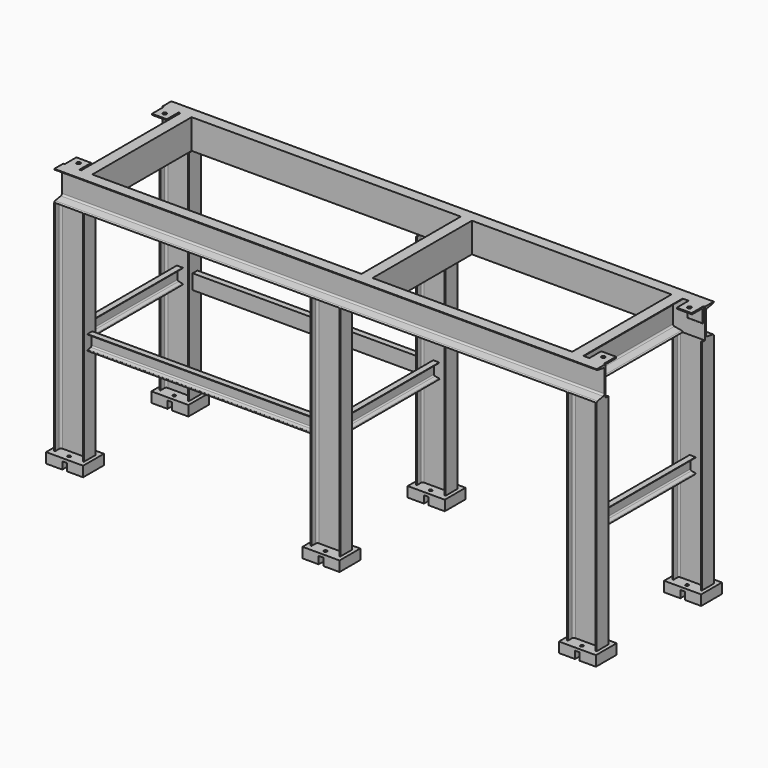
from build123d import *

# Parameters (mm, degrees)
F1_DEPTH      = 50.8
F3_DEPTH      = 60.325
F3_DEPTH_BACK = 3657.6
F6_DEPTH      = 50.8
F7_R          = 12.7
F8_DEPTH      = 9.525
F12_DEPTH     = 850.9
F14_DEPTH     = 1498.6
F15_W         = 254
F15_H         = 177.8
F15_R         = 10.31875
F16_DEPTH     = 19.05
F18_DEPTH     = 50.8
F20_DEPTH     = 895.35
F22_DEPTH     = 1554.1625


with BuildPart() as f1:
    # F0 (on Right) → F1 (new body, symmetric)
    with BuildSketch(Plane.YZ):
        with BuildLine():
            Line((101.6, 0), (0, 0))
            Line((0, 0), (0, -101.6))
            Line((0, -101.6), (4.7625, -101.6))
            ThreePointArc((4.7625, -101.6), (8.1300960454, -100.2050960454), (9.525, -96.8375))
            Line((9.525, -96.8375), (9.525, -19.05))
            ThreePointArc((9.525, -19.05), (12.3148079092, -12.3148079092), (19.05, -9.525))
            Line((19.05, -9.525), (96.8375, -9.525))
            ThreePointArc((96.8375, -9.525), (100.2050960454, -8.1300960454), (101.6, -4.7625))
            Line((101.6, -4.7625), (101.6, 0))
        make_face()
    extrude(amount=F1_DEPTH, both=True)

    # F2 (on Right) → F3 (join, two sides)
    with BuildSketch(Plane.YZ) as f3_sk:
        with BuildLine():
            Line((0, -203.2), (0, 0))
            Line((0, 0), (-76.2, 0))
            ThreePointArc((-76.2, 0), (-74.2744464194, -5.2869751523), (-69.3998090394, -8.0972728709))
            Line((-69.3998090394, -8.0972728709), (-19.3474980542, -16.8796887241))
            ThreePointArc((-19.3474980542, -16.8796887241), (-12.306355172, -20.9390076509), (-9.525, -28.5757495376))
            Line((-9.525, -28.5757495376), (-9.525, -174.6242504624))
            ThreePointArc((-9.525, -174.6242504624), (-12.306355172, -182.2609923491), (-19.3474980542, -186.3203112759))
            Line((-19.3474980542, -186.3203112759), (-69.3998090394, -195.1027271291))
            ThreePointArc((-69.3998090394, -195.1027271291), (-74.2744464194, -197.9130248477), (-76.2, -203.2))
            Line((-76.2, -203.2), (0, -203.2))
        make_face()
    extrude(amount=-F3_DEPTH)
    extrude(f3_sk.sketch, amount=F3_DEPTH_BACK)

    # F5 (on offset) → F6 (join, symmetric)
    with BuildSketch(Plane.YZ.offset(3597.275)):
        with BuildLine():
            Line((101.6, 0), (0, 0))
            Line((0, 0), (0, -101.6))
            Line((0, -101.6), (4.7625, -101.6))
            ThreePointArc((4.7625, -101.6), (8.1300960454, -100.2050960454), (9.525, -96.8375))
            Line((9.525, -96.8375), (9.525, -19.05))
            ThreePointArc((9.525, -19.05), (12.3148079092, -12.3148079092), (19.05, -9.525))
            Line((19.05, -9.525), (96.8375, -9.525))
            ThreePointArc((96.8375, -9.525), (100.2050960454, -8.1300960454), (101.6, -4.7625))
            Line((101.6, -4.7625), (101.6, 0))
        make_face()
    extrude(amount=F6_DEPTH, both=True)

    # F7 (on face) → F8 (cut, through all)
    with BuildSketch(Plane.XY):
        with Locations((0, 57.15)):
            Circle(F7_R)
        with Locations((3597.275, 57.15)):
            Circle(F7_R)
    extrude(amount=-F8_DEPTH, mode=Mode.SUBTRACT)


with BuildPart() as f10_1:
    # F10: instance of F1
    add(f1.part.mirror(Plane.XZ.offset(-425.45)))


with BuildPart() as f1_1:
    add(f1.part)

    add(f10_1.part)  # F12 merges F10_1
    # F11 (on face) → F12 (join, through all)
    with BuildSketch(Plane(origin=(0, 0, 0), x_dir=(-1, 0, 0), z_dir=(0, 1, 0))):
        with BuildLine():
            Line((-3429, -203.2), (-3429, 0))
            Line((-3429, 0), (-3505.2, 0))
            ThreePointArc((-3505.2, 0), (-3503.2744464194, -5.2869751523), (-3498.3998090394, -8.0972728709))
            Line((-3498.3998090394, -8.0972728709), (-3448.3474980542, -16.8796887241))
            ThreePointArc((-3448.3474980542, -16.8796887241), (-3441.306355172, -20.9390076509), (-3438.525, -28.5757495376))
            Line((-3438.525, -28.5757495376), (-3438.525, -174.6242504624))
            ThreePointArc((-3438.525, -174.6242504624), (-3441.306355172, -182.2609923491), (-3448.3474980542, -186.3203112759))
            Line((-3448.3474980542, -186.3203112759), (-3498.3998090394, -195.1027271291))
            ThreePointArc((-3498.3998090394, -195.1027271291), (-3503.2744464194, -197.9130248477), (-3505.2, -203.2))
            Line((-3505.2, -203.2), (-3429, -203.2))
        make_face()
        with BuildLine():
            Line((-2060.575, 0), (-2060.575, -203.2))
            Line((-2060.575, -203.2), (-1984.375, -203.2))
            ThreePointArc((-1984.375, -203.2), (-1986.3005535806, -197.9130248477), (-1991.1751909606, -195.1027271291))
            Line((-1991.1751909606, -195.1027271291), (-2041.2275019458, -186.3203112759))
            ThreePointArc((-2041.2275019458, -186.3203112759), (-2048.268644828, -182.2609923491), (-2051.05, -174.6242504624))
            Line((-2051.05, -174.6242504624), (-2051.05, -28.5757495376))
            ThreePointArc((-2051.05, -28.5757495376), (-2048.268644828, -20.9390076509), (-2041.2275019458, -16.8796887241))
            Line((-2041.2275019458, -16.8796887241), (-1991.1751909606, -8.0972728709))
            ThreePointArc((-1991.1751909606, -8.0972728709), (-1986.3005535806, -5.2869751523), (-1984.375, 0))
            Line((-1984.375, 0), (-2060.575, 0))
        make_face()
        with BuildLine():
            Line((-139.7, 0), (-139.7, -203.2))
            Line((-139.7, -203.2), (-63.5, -203.2))
            ThreePointArc((-63.5, -203.2), (-65.4255535806, -197.9130248477), (-70.3001909606, -195.1027271291))
            Line((-70.3001909606, -195.1027271291), (-120.3525019458, -186.3203112759))
            ThreePointArc((-120.3525019458, -186.3203112759), (-127.393644828, -182.2609923491), (-130.175, -174.6242504624))
            Line((-130.175, -174.6242504624), (-130.175, -28.5757495376))
            ThreePointArc((-130.175, -28.5757495376), (-127.393644828, -20.9390076509), (-120.3525019458, -16.8796887241))
            Line((-120.3525019458, -16.8796887241), (-70.3001909606, -8.0972728709))
            ThreePointArc((-70.3001909606, -8.0972728709), (-65.4255535806, -5.2869751523), (-63.5, 0))
            Line((-63.5, 0), (-139.7, 0))
        make_face()
    extrude(amount=F12_DEPTH)

    # F13 (on face) → F14 (join)
    with BuildSketch(Plane(origin=(0, 0, -203.2), x_dir=(1, 0, 0), z_dir=(0, 0, -1))):
        with BuildLine():
            Line((-53.975, -825.5), (-60.325, -825.5))
            Line((-60.325, -825.5), (-60.325, -927.1))
            Line((-60.325, -927.1), (-53.975, -927.1))
            Line((-53.975, -927.1), (-53.975, -892.175))
            ThreePointArc((-53.975, -892.175), (-50.2552561211, -883.1947438789), (-41.275, -879.475))
            Line((-41.275, -879.475), (123.825, -879.475))
            ThreePointArc((123.825, -879.475), (132.8052561211, -883.1947438789), (136.525, -892.175))
            Line((136.525, -892.175), (136.525, -927.1))
            Line((136.525, -927.1), (142.875, -927.1))
            Line((142.875, -927.1), (142.875, -825.5))
            Line((142.875, -825.5), (136.525, -825.5))
            Line((136.525, -825.5), (136.525, -860.425))
            ThreePointArc((136.525, -860.425), (132.8052561211, -869.4052561211), (123.825, -873.125))
            Line((123.825, -873.125), (-41.275, -873.125))
            ThreePointArc((-41.275, -873.125), (-50.2552561211, -869.4052561211), (-53.975, -860.425))
            Line((-53.975, -860.425), (-53.975, -825.5))
        make_face()
        with BuildLine():
            Line((-53.975, 76.2), (-60.325, 76.2))
            Line((-60.325, 76.2), (-60.325, -25.4))
            Line((-60.325, -25.4), (-53.975, -25.4))
            Line((-53.975, -25.4), (-53.975, 9.525))
            ThreePointArc((-53.975, 9.525), (-50.2552561211, 18.5052561211), (-41.275, 22.225))
            Line((-41.275, 22.225), (123.825, 22.225))
            ThreePointArc((123.825, 22.225), (132.8052561211, 18.5052561211), (136.525, 9.525))
            Line((136.525, 9.525), (136.525, -25.4))
            Line((136.525, -25.4), (142.875, -25.4))
            Line((142.875, -25.4), (142.875, 76.2))
            Line((142.875, 76.2), (136.525, 76.2))
            Line((136.525, 76.2), (136.525, 41.275))
            ThreePointArc((136.525, 41.275), (132.8052561211, 32.2947438789), (123.825, 28.575))
            Line((123.825, 28.575), (-41.275, 28.575))
            ThreePointArc((-41.275, 28.575), (-50.2552561211, 32.2947438789), (-53.975, 41.275))
            Line((-53.975, 41.275), (-53.975, 76.2))
        make_face()
        with BuildLine():
            Line((1703.3875, -825.5), (1697.0375, -825.5))
            Line((1697.0375, -825.5), (1697.0375, -927.1))
            Line((1697.0375, -927.1), (1703.3875, -927.1))
            Line((1703.3875, -927.1), (1703.3875, -892.175))
            ThreePointArc((1703.3875, -892.175), (1707.1072438789, -883.1947438789), (1716.0875, -879.475))
            Line((1716.0875, -879.475), (1881.1875, -879.475))
            ThreePointArc((1881.1875, -879.475), (1890.1677561211, -883.1947438789), (1893.8875, -892.175))
            Line((1893.8875, -892.175), (1893.8875, -927.1))
            Line((1893.8875, -927.1), (1900.2375, -927.1))
            Line((1900.2375, -927.1), (1900.2375, -825.5))
            Line((1900.2375, -825.5), (1893.8875, -825.5))
            Line((1893.8875, -825.5), (1893.8875, -860.425))
            ThreePointArc((1893.8875, -860.425), (1890.1677561211, -869.4052561211), (1881.1875, -873.125))
            Line((1881.1875, -873.125), (1716.0875, -873.125))
            ThreePointArc((1716.0875, -873.125), (1707.1072438789, -869.4052561211), (1703.3875, -860.425))
            Line((1703.3875, -860.425), (1703.3875, -825.5))
        make_face()
        with BuildLine():
            Line((1703.3875, 76.2), (1697.0375, 76.2))
            Line((1697.0375, 76.2), (1697.0375, -25.4))
            Line((1697.0375, -25.4), (1703.3875, -25.4))
            Line((1703.3875, -25.4), (1703.3875, 9.525))
            ThreePointArc((1703.3875, 9.525), (1707.1072438789, 18.5052561211), (1716.0875, 22.225))
            Line((1716.0875, 22.225), (1881.1875, 22.225))
            ThreePointArc((1881.1875, 22.225), (1890.1677561211, 18.5052561211), (1893.8875, 9.525))
            Line((1893.8875, 9.525), (1893.8875, -25.4))
            Line((1893.8875, -25.4), (1900.2375, -25.4))
            Line((1900.2375, -25.4), (1900.2375, 76.2))
            Line((1900.2375, 76.2), (1893.8875, 76.2))
            Line((1893.8875, 76.2), (1893.8875, 41.275))
            ThreePointArc((1893.8875, 41.275), (1890.1677561211, 32.2947438789), (1881.1875, 28.575))
            Line((1881.1875, 28.575), (1716.0875, 28.575))
            ThreePointArc((1716.0875, 28.575), (1707.1072438789, 32.2947438789), (1703.3875, 41.275))
            Line((1703.3875, 41.275), (1703.3875, 76.2))
        make_face()
        with BuildLine():
            Line((3460.75, -825.5), (3454.4, -825.5))
            Line((3454.4, -825.5), (3454.4, -927.1))
            Line((3454.4, -927.1), (3460.75, -927.1))
            Line((3460.75, -927.1), (3460.75, -892.175))
            ThreePointArc((3460.75, -892.175), (3464.4697438789, -883.1947438789), (3473.45, -879.475))
            Line((3473.45, -879.475), (3638.55, -879.475))
            ThreePointArc((3638.55, -879.475), (3647.5302561211, -883.1947438789), (3651.25, -892.175))
            Line((3651.25, -892.175), (3651.25, -927.1))
            Line((3651.25, -927.1), (3657.6, -927.1))
            Line((3657.6, -927.1), (3657.6, -825.5))
            Line((3657.6, -825.5), (3651.25, -825.5))
            Line((3651.25, -825.5), (3651.25, -860.425))
            ThreePointArc((3651.25, -860.425), (3647.5302561211, -869.4052561211), (3638.55, -873.125))
            Line((3638.55, -873.125), (3473.45, -873.125))
            ThreePointArc((3473.45, -873.125), (3464.4697438789, -869.4052561211), (3460.75, -860.425))
            Line((3460.75, -860.425), (3460.75, -825.5))
        make_face()
        with BuildLine():
            Line((3460.75, 76.2), (3454.4, 76.2))
            Line((3454.4, 76.2), (3454.4, -25.4))
            Line((3454.4, -25.4), (3460.75, -25.4))
            Line((3460.75, -25.4), (3460.75, 9.525))
            ThreePointArc((3460.75, 9.525), (3464.4697438789, 18.5052561211), (3473.45, 22.225))
            Line((3473.45, 22.225), (3638.55, 22.225))
            ThreePointArc((3638.55, 22.225), (3647.5302561211, 18.5052561211), (3651.25, 9.525))
            Line((3651.25, 9.525), (3651.25, -25.4))
            Line((3651.25, -25.4), (3657.6, -25.4))
            Line((3657.6, -25.4), (3657.6, 76.2))
            Line((3657.6, 76.2), (3651.25, 76.2))
            Line((3651.25, 76.2), (3651.25, 41.275))
            ThreePointArc((3651.25, 41.275), (3647.5302561211, 32.2947438789), (3638.55, 28.575))
            Line((3638.55, 28.575), (3473.45, 28.575))
            ThreePointArc((3473.45, 28.575), (3464.4697438789, 32.2947438789), (3460.75, 41.275))
            Line((3460.75, 41.275), (3460.75, 76.2))
        make_face()
    extrude(amount=F14_DEPTH)

    # F15 (on face) → F16 (join)
    with BuildSketch(Plane(origin=(0, 0, -1701.8), x_dir=(1, 0, 0), z_dir=(0, 0, -1))):
        with Locations((41.275, 25.4)):
            Rectangle(F15_W, F15_H)
        with Locations((41.275, -25.4)):
            Circle(F15_R, mode=Mode.SUBTRACT)
        with BuildLine():
            Line((-41.275, 28.575), (123.825, 28.575))
            ThreePointArc((123.825, 28.575), (132.8052561211, 32.2947438789), (136.525, 41.275))
            Line((136.525, 41.275), (136.525, 76.2))
            Line((136.525, 76.2), (142.875, 76.2))
            Line((142.875, 76.2), (142.875, -25.4))
            Line((142.875, -25.4), (136.525, -25.4))
            Line((136.525, -25.4), (136.525, 9.525))
            ThreePointArc((136.525, 9.525), (132.8052561211, 18.5052561211), (123.825, 22.225))
            Line((123.825, 22.225), (-41.275, 22.225))
            ThreePointArc((-41.275, 22.225), (-50.2552561211, 18.5052561211), (-53.975, 9.525))
            Line((-53.975, 9.525), (-53.975, -25.4))
            Line((-53.975, -25.4), (-60.325, -25.4))
            Line((-60.325, -25.4), (-60.325, 76.2))
            Line((-60.325, 76.2), (-53.975, 76.2))
            Line((-53.975, 76.2), (-53.975, 41.275))
            ThreePointArc((-53.975, 41.275), (-50.2552561211, 32.2947438789), (-41.275, 28.575))
        make_face(mode=Mode.SUBTRACT)
        with Locations((41.275, 76.2)):
            Circle(F15_R, mode=Mode.SUBTRACT)
        with BuildLine():
            ThreePointArc((136.525, 41.275), (132.8052561211, 32.2947438789), (123.825, 28.575))
            Line((123.825, 28.575), (-41.275, 28.575))
            ThreePointArc((-41.275, 28.575), (-50.2552561211, 32.2947438789), (-53.975, 41.275))
            Line((-53.975, 41.275), (-53.975, 76.2))
            Line((-53.975, 76.2), (-60.325, 76.2))
            Line((-60.325, 76.2), (-60.325, -25.4))
            Line((-60.325, -25.4), (-53.975, -25.4))
            Line((-53.975, -25.4), (-53.975, 9.525))
            ThreePointArc((-53.975, 9.525), (-50.2552561211, 18.5052561211), (-41.275, 22.225))
            Line((-41.275, 22.225), (123.825, 22.225))
            ThreePointArc((123.825, 22.225), (132.8052561211, 18.5052561211), (136.525, 9.525))
            Line((136.525, 9.525), (136.525, -25.4))
            Line((136.525, -25.4), (142.875, -25.4))
            Line((142.875, -25.4), (142.875, 76.2))
            Line((142.875, 76.2), (136.525, 76.2))
            Line((136.525, 76.2), (136.525, 41.275))
        make_face()
        with Locations((1798.6375, 25.4)):
            Rectangle(F15_W, F15_H)
        with Locations((1798.6375, -25.4)):
            Circle(F15_R, mode=Mode.SUBTRACT)
        with Locations((1798.6375, 76.2)):
            Circle(F15_R, mode=Mode.SUBTRACT)
        with Locations((3556, 25.4)):
            Rectangle(F15_W, F15_H)
        with Locations((3556, -25.4)):
            Circle(F15_R, mode=Mode.SUBTRACT)
        with Locations((3556, 76.2)):
            Circle(F15_R, mode=Mode.SUBTRACT)
        with Locations((3556, -876.3)):
            Rectangle(F15_W, F15_H)
        with Locations((3556, -927.1)):
            Circle(F15_R, mode=Mode.SUBTRACT)
        with Locations((3556, -825.5)):
            Circle(F15_R, mode=Mode.SUBTRACT)
        with Locations((1798.6375, -876.3)):
            Rectangle(F15_W, F15_H)
        with Locations((1798.6375, -927.1)):
            Circle(F15_R, mode=Mode.SUBTRACT)
        with Locations((1798.6375, -825.5)):
            Circle(F15_R, mode=Mode.SUBTRACT)
        with Locations((41.275, -876.3)):
            Rectangle(F15_W, F15_H)
        with Locations((41.275, -927.1)):
            Circle(F15_R, mode=Mode.SUBTRACT)
        with Locations((41.275, -825.5)):
            Circle(F15_R, mode=Mode.SUBTRACT)
    extrude(amount=F16_DEPTH)

    # F17 (on face) → F18 (join)
    with BuildSketch(Plane(origin=(0, 0, -1720.85), x_dir=(1, 0, 0), z_dir=(0, 0, -1))):
        Polygon((25.4, 114.3), (-85.725, 114.3), (-85.725, -63.5), (25.4, -63.5), (25.4, -12.7), (57.15, -12.7), (57.15, -63.5), (168.275, -63.5), (168.275, 114.3), (57.15, 114.3), (57.15, 63.5), (25.4, 63.5), align=None)
        Polygon((1782.7625, 114.3), (1671.6375, 114.3), (1671.6375, -63.5), (1782.7625, -63.5), (1782.7625, -12.7), (1814.5125, -12.7), (1814.5125, -63.5), (1925.6375, -63.5), (1925.6375, 114.3), (1814.5125, 114.3), (1814.5125, 63.5), (1782.7625, 63.5), align=None)
        Polygon((3540.125, 114.3), (3429, 114.3), (3429, -63.5), (3540.125, -63.5), (3540.125, -12.7), (3571.875, -12.7), (3571.875, -63.5), (3683, -63.5), (3683, 114.3), (3571.875, 114.3), (3571.875, 63.5), (3540.125, 63.5), align=None)
        Polygon((3540.125, -787.4), (3429, -787.4), (3429, -965.2), (3540.125, -965.2), (3540.125, -914.4), (3571.875, -914.4), (3571.875, -965.2), (3683, -965.2), (3683, -787.4), (3571.875, -787.4), (3571.875, -838.2), (3540.125, -838.2), align=None)
        Polygon((1782.7625, -787.4), (1671.6375, -787.4), (1671.6375, -965.2), (1782.7625, -965.2), (1782.7625, -914.4), (1814.5125, -914.4), (1814.5125, -965.2), (1925.6375, -965.2), (1925.6375, -787.4), (1814.5125, -787.4), (1814.5125, -838.2), (1782.7625, -838.2), align=None)
        Polygon((25.4, -787.4), (-85.725, -787.4), (-85.725, -965.2), (25.4, -965.2), (25.4, -914.4), (57.15, -914.4), (57.15, -965.2), (168.275, -965.2), (168.275, -787.4), (57.15, -787.4), (57.15, -838.2), (25.4, -838.2), align=None)
    extrude(amount=F18_DEPTH)

    # F19 (on face) → F20 (join, through all)
    with BuildSketch(Plane(origin=(0, -22.225, 0), x_dir=(-1, 0, 0), z_dir=(0, 1, 0))):
        with BuildLine():
            Line((-20.6375, -1044.575), (-20.6375, -942.975))
            Line((-20.6375, -942.975), (-61.9125, -942.975))
            ThreePointArc((-61.9125, -942.975), (-60.6035433247, -946.5816805959), (-57.2860465348, -948.5093028485))
            Line((-57.2860465348, -948.5093028485), (-32.9332552407, -952.8960991709))
            ThreePointArc((-32.9332552407, -952.8960991709), (-27.4602275418, -956.0761866434), (-25.30078125, -962.0262942256))
            Line((-25.30078125, -962.0262942256), (-25.30078125, -1025.5237057744))
            ThreePointArc((-25.30078125, -1025.5237057744), (-27.4602275418, -1031.4738133566), (-32.9332552407, -1034.6539008291))
            Line((-32.9332552407, -1034.6539008291), (-57.2860465348, -1039.0406971515))
            ThreePointArc((-57.2860465348, -1039.0406971515), (-60.6035433247, -1040.9683194041), (-61.9125, -1044.575))
            Line((-61.9125, -1044.575), (-20.6375, -1044.575))
        make_face()
        with BuildLine():
            Line((-1778, -1044.575), (-1778, -942.975))
            Line((-1778, -942.975), (-1819.275, -942.975))
            ThreePointArc((-1819.275, -942.975), (-1817.9660433247, -946.5816805959), (-1814.6485465348, -948.5093028485))
            Line((-1814.6485465348, -948.5093028485), (-1790.2957552407, -952.8960991709))
            ThreePointArc((-1790.2957552407, -952.8960991709), (-1784.8227275418, -956.0761866434), (-1782.66328125, -962.0262942256))
            Line((-1782.66328125, -962.0262942256), (-1782.66328125, -1025.5237057744))
            ThreePointArc((-1782.66328125, -1025.5237057744), (-1784.8227275418, -1031.4738133566), (-1790.2957552407, -1034.6539008291))
            Line((-1790.2957552407, -1034.6539008291), (-1814.6485465348, -1039.0406971515))
            ThreePointArc((-1814.6485465348, -1039.0406971515), (-1817.9660433247, -1040.9683194041), (-1819.275, -1044.575))
            Line((-1819.275, -1044.575), (-1778, -1044.575))
        make_face()
        with BuildLine():
            Line((-3535.3625, -1044.575), (-3535.3625, -942.975))
            Line((-3535.3625, -942.975), (-3576.6375, -942.975))
            ThreePointArc((-3576.6375, -942.975), (-3575.3285433247, -946.5816805959), (-3572.0110465348, -948.5093028485))
            Line((-3572.0110465348, -948.5093028485), (-3547.6582552407, -952.8960991709))
            ThreePointArc((-3547.6582552407, -952.8960991709), (-3542.1852275418, -956.0761866434), (-3540.02578125, -962.0262942256))
            Line((-3540.02578125, -962.0262942256), (-3540.02578125, -1025.5237057744))
            ThreePointArc((-3540.02578125, -1025.5237057744), (-3542.1852275418, -1031.4738133566), (-3547.6582552407, -1034.6539008291))
            Line((-3547.6582552407, -1034.6539008291), (-3572.0110465348, -1039.0406971515))
            ThreePointArc((-3572.0110465348, -1039.0406971515), (-3575.3285433247, -1040.9683194041), (-3576.6375, -1044.575))
            Line((-3576.6375, -1044.575), (-3535.3625, -1044.575))
        make_face()
    extrude(amount=F20_DEPTH)

    # F21 (on face) → F22 (join, through all)
    with BuildSketch(Plane.YZ.offset(142.875)):
        with BuildLine():
            Line((-4.7625, -1044.575), (-4.7625, -942.975))
            Line((-4.7625, -942.975), (-46.0375, -942.975))
            ThreePointArc((-46.0375, -942.975), (-44.7285433247, -946.5816805959), (-41.4110465348, -948.5093028485))
            Line((-41.4110465348, -948.5093028485), (-17.0582552407, -952.8960991709))
            ThreePointArc((-17.0582552407, -952.8960991709), (-11.5852275418, -956.0761866434), (-9.42578125, -962.0262942256))
            Line((-9.42578125, -962.0262942256), (-9.42578125, -1025.5237057744))
            ThreePointArc((-9.42578125, -1025.5237057744), (-11.5852275418, -1031.4738133566), (-17.0582552407, -1034.6539008291))
            Line((-17.0582552407, -1034.6539008291), (-41.4110465348, -1039.0406971515))
            ThreePointArc((-41.4110465348, -1039.0406971515), (-44.7285433247, -1040.9683194041), (-46.0375, -1044.575))
            Line((-46.0375, -1044.575), (-4.7625, -1044.575))
        make_face()
        with BuildLine():
            ThreePointArc((896.9375, -1044.575), (895.6285433247, -1040.9683194041), (892.3110465348, -1039.0406971515))
            Line((892.3110465348, -1039.0406971515), (867.9582552407, -1034.6539008291))
            ThreePointArc((867.9582552407, -1034.6539008291), (862.4852275418, -1031.4738133566), (860.32578125, -1025.5237057744))
            Line((860.32578125, -1025.5237057744), (860.32578125, -962.0262942256))
            ThreePointArc((860.32578125, -962.0262942256), (862.4852275418, -956.0761866434), (867.9582552407, -952.8960991709))
            Line((867.9582552407, -952.8960991709), (892.3110465348, -948.5093028485))
            ThreePointArc((892.3110465348, -948.5093028485), (895.6285433247, -946.5816805959), (896.9375, -942.975))
            Line((896.9375, -942.975), (855.6625, -942.975))
            Line((855.6625, -942.975), (855.6625, -1044.575))
            Line((855.6625, -1044.575), (896.9375, -1044.575))
        make_face()
    extrude(amount=F22_DEPTH)


solid = f1_1.part
